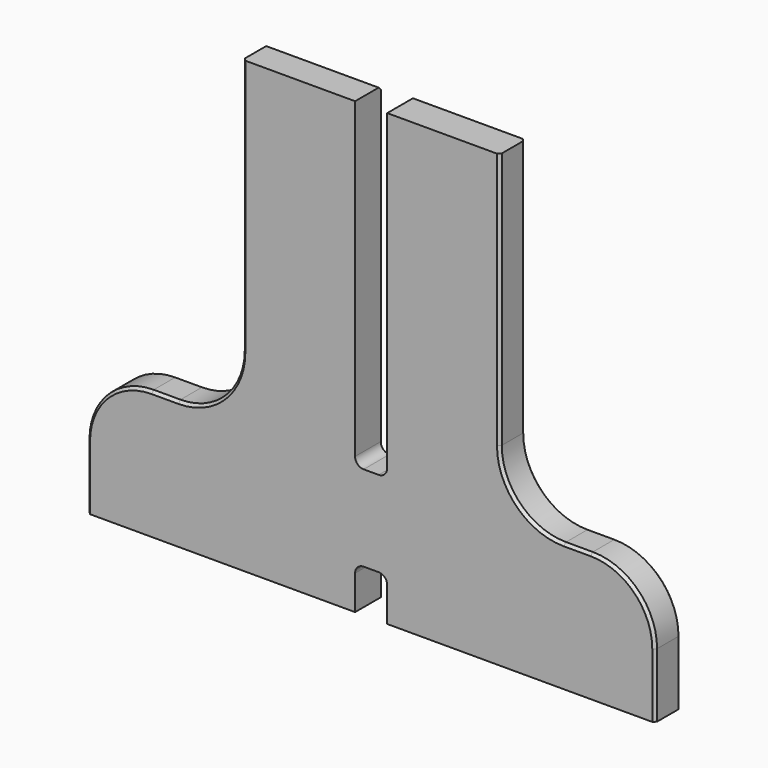
from build123d import *

# Parameters (mm, degrees)
F1_DEPTH = 19.05
F2_R     = 38.1
F3_R     = 5.08
F4_SIZE  = 1.5875


with BuildPart() as f1:
    # F0 (on Front) → F1 (new body)
    with BuildSketch(Plane.XZ):
        Polygon((76.2, -95.25), (76.2, 95.25), (9.525, 95.25), (9.525, -95.25), (-9.525, -95.25), (-9.525, 95.25), (-76.2, 95.25), (-76.2, -95.25), (-168.275, -95.25), (-168.275, -171.45), (-9.525, -171.45), (-9.525, -146.05), (9.525, -146.05), (9.525, -171.45), (168.275, -171.45), (168.275, -95.25), align=None)
    extrude(amount=F1_DEPTH)

    # F2
    f2_edges = [f1.edges().sort_by_distance(p)[0] for p in [
        (-168.275, -9.525, -95.25),
        (-76.2, -9.525, -95.25),
        (76.2, -9.525, -95.25),
        (168.275, -9.525, -95.25),
    ]]
    fillet(f2_edges, radius=F2_R)

    # F3
    f3_edges = [f1.edges().sort_by_distance(p)[0] for p in [
        (9.525, -9.525, -95.25),
        (-9.525, -9.525, -95.25),
        (-9.525, -9.525, -146.05),
        (9.525, -9.525, -146.05),
    ]]
    fillet(f3_edges, radius=F3_R)

    # F4
    f4_edges = [f1.edges().sort_by_distance(p)[0] for p in [
        (-122.2375, -19.05, -95.25),
        (122.2375, -19.05, -95.25),
        (122.2375, 0, -95.25),
        (-42.8625, 0, 95.25),
        (-76.2, 0, 19.05),
        (-122.2375, 0, -95.25),
    ]]
    chamfer(f4_edges, length=F4_SIZE)


solid = f1.part
